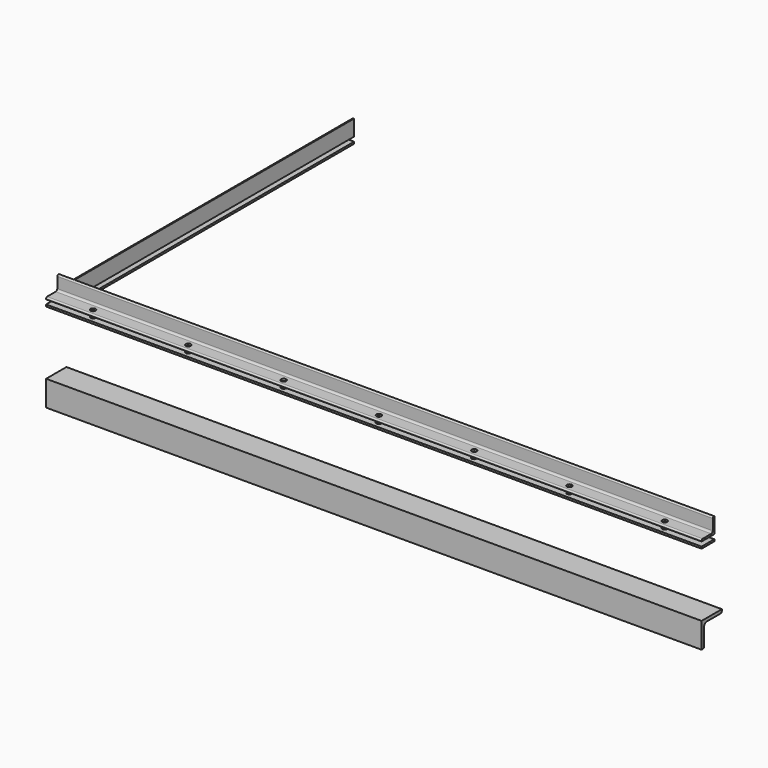
from build123d import *

# Parameters (mm, degrees)
F4_DEPTH  = 3
F2_W      = 25
F2_H      = 550
F5_DEPTH  = 3
F7_DEPTH  = 516
F6_R      = 4
F8_DEPTH  = 3.001
F9_DEPTH  = 32.001
F11_R     = 4
F12_DEPTH = 3.001
F13_DEPTH = 550
F14_DEPTH = 32.001
F16_DEPTH = 516


with BuildPart() as f4:
    # F2 (on Top) → F4 (new body)
    with BuildSketch(Plane.XY):
        Polygon((-491, 0), (-516, 0), (-516, -25), (516, -25), (516, 0), align=None)
    extrude(amount=F4_DEPTH)

    # F6 (on face) → F8 (cut, through all)
    with BuildSketch(Plane.XY.offset(3)):
        with Locations((-450, -15)):
            Circle(F6_R)
        with Locations((-300, -15)):
            Circle(F6_R)
        with Locations((-150, -15)):
            Circle(F6_R)
        with Locations((0, -15)):
            Circle(F6_R)
        with Locations((150, -15)):
            Circle(F6_R)
        with Locations((300, -15)):
            Circle(F6_R)
        with Locations((450, -15)):
            Circle(F6_R)
    extrude(amount=-F8_DEPTH, mode=Mode.SUBTRACT)


with BuildPart() as f5:
    # F2 (on Top) → F5 (new body)
    with BuildSketch(Plane.XY):
        with Locations((-503.5, 275)):
            Rectangle(F2_W, F2_H)
    extrude(amount=F5_DEPTH)

    # F11 (on face) → F12 (cut, through all)
    with BuildSketch(Plane.XY.offset(3)):
        with Locations((-506, 75)):
            Circle(F11_R)
        with Locations((-506, 175)):
            Circle(F11_R)
        with Locations((-506, 275)):
            Circle(F11_R)
        with Locations((-506, 375)):
            Circle(F11_R)
        with Locations((-506, 475)):
            Circle(F11_R)
    extrude(amount=-F12_DEPTH, mode=Mode.SUBTRACT)


with BuildPart() as f7:
    # F3 (on Right) → F7 (new body, symmetric)
    with BuildSketch(Plane.YZ):
        with BuildLine():
            Line((-25, 11), (-25, 10))
            Line((-25, 10), (0, 10))
            Line((0, 10), (0, 35))
            Line((0, 35), (-1, 35))
            ThreePointArc((-1, 35), (-2.4142135624, 34.4142135624), (-3, 33))
            Line((-3, 33), (-3, 16))
            ThreePointArc((-3, 16), (-3.8786796564, 13.8786796564), (-6, 13))
            Line((-6, 13), (-23, 13))
            ThreePointArc((-23, 13), (-24.4142135624, 12.4142135624), (-25, 11))
        make_face()
    extrude(amount=F7_DEPTH, both=True)

    # F6 (on face) → F9 (cut, through all)
    with BuildSketch(Plane.XY.offset(3)):
        with Locations((-450, -15)):
            Circle(F6_R)
        with Locations((-300, -15)):
            Circle(F6_R)
        with Locations((-150, -15)):
            Circle(F6_R)
        with Locations((0, -15)):
            Circle(F6_R)
        with Locations((150, -15)):
            Circle(F6_R)
        with Locations((300, -15)):
            Circle(F6_R)
        with Locations((450, -15)):
            Circle(F6_R)
    extrude(amount=F9_DEPTH, mode=Mode.SUBTRACT)


with BuildPart() as f13:
    # F10 (on Front) → F13 (new body)
    with BuildSketch(Plane.XZ):
        with BuildLine():
            Line((-516, 10), (-491, 10))
            Line((-491, 10), (-491, 35))
            Line((-491, 35), (-492, 35))
            ThreePointArc((-492, 35), (-493.4142135624, 34.4142135624), (-494, 33))
            Line((-494, 33), (-494, 16))
            ThreePointArc((-494, 16), (-494.8786796564, 13.8786796564), (-497, 13))
            Line((-497, 13), (-514, 13))
            ThreePointArc((-514, 13), (-515.4142135624, 12.4142135624), (-516, 11))
            Line((-516, 11), (-516, 10))
        make_face()
    extrude(amount=-F13_DEPTH)

    # F11 (on face) → F14 (cut, through all)
    with BuildSketch(Plane.XY.offset(3)):
        with Locations((-506, 75)):
            Circle(F11_R)
        with Locations((-506, 175)):
            Circle(F11_R)
        with Locations((-506, 275)):
            Circle(F11_R)
        with Locations((-506, 375)):
            Circle(F11_R)
        with Locations((-506, 475)):
            Circle(F11_R)
    extrude(amount=F14_DEPTH, mode=Mode.SUBTRACT)


with BuildPart() as f16:
    # F15 (on Right) → F16 (new body, symmetric)
    with BuildSketch(Plane.YZ):
        with BuildLine():
            Line((15, -102), (15, -100))
            Line((15, -100), (-25, -100))
            Line((-25, -100), (-25, -140))
            Line((-25, -140), (-23, -140))
            ThreePointArc((-23, -140), (-20.8786796564, -139.1213203436), (-20, -137))
            Line((-20, -137), (-20, -110))
            ThreePointArc((-20, -110), (-18.5355339059, -106.4644660941), (-15, -105))
            Line((-15, -105), (12, -105))
            ThreePointArc((12, -105), (14.1213203436, -104.1213203436), (15, -102))
        make_face()
    extrude(amount=F16_DEPTH, both=True)


solid = Compound([f4.part, f5.part, f7.part, f13.part, f16.part])
